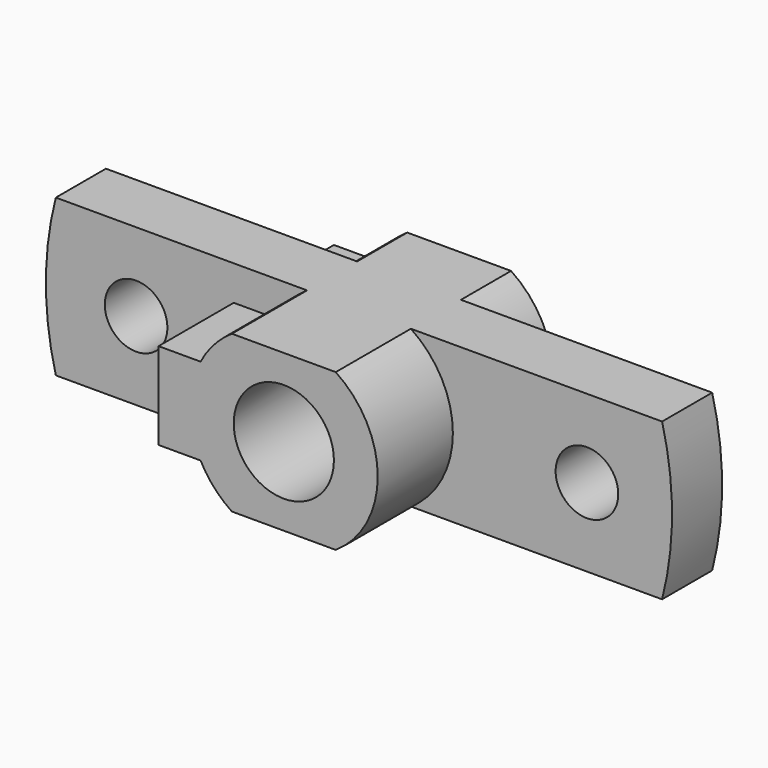
from build123d import *

# Parameters (mm, degrees)
F0_R          = 8
F1_DEPTH      = 25
F1_DEPTH_BACK = 10
F0_R_2        = 5
F2_DEPTH      = 10


with BuildPart() as f1:
    # F0 (on Front) → F1 (new body, two sides)
    with BuildSketch(Plane.XZ) as f1_sk:
        with BuildLine():
            Line((-8.291562, -12.5), (8.291562, -12.5))
            ThreePointArc((8.291562, -12.5), (15, 0), (8.291562, 12.5))
            Line((8.291562, 12.5), (-8.291562, 12.5))
            ThreePointArc((-8.291562, 12.5), (-11.143656, 10.040863), (-13.293364, 6.948847))
            Line((-13.293364, 6.948847), (-20, 6.948847))
            Line((-20, 6.948847), (-20, -6.948847))
            Line((-20, -6.948847), (-13.293364, -6.948847))
            ThreePointArc((-13.293364, -6.948847), (-11.143656, -10.040863), (-8.291562, -12.5))
        make_face()
        Circle(F0_R, mode=Mode.SUBTRACT)
    extrude(amount=F1_DEPTH)
    extrude(f1_sk.sketch, amount=-F1_DEPTH_BACK)

    # F0 (on Front) → F2 (join)
    with BuildSketch(Plane.XZ):
        with BuildLine():
            ThreePointArc((8.291562, 12.5), (15, 0), (8.291562, -12.5))
            Line((8.291562, -12.5), (48.412292, -12.5))
            ThreePointArc((48.412292, -12.5), (50, 0), (48.412292, 12.5))
            Line((48.412292, 12.5), (8.291562, 12.5))
        make_face()
        with Locations((36.408323, 0)):
            Circle(F0_R_2, mode=Mode.SUBTRACT)
        with BuildLine():
            Line((-48.412292, -12.5), (-8.291562, -12.5))
            ThreePointArc((-8.291562, -12.5), (-11.143656, -10.040863), (-13.293364, -6.948847))
            Line((-13.293364, -6.948847), (-20, -6.948847))
            Line((-20, -6.948847), (-20, 6.948847))
            Line((-20, 6.948847), (-13.293364, 6.948847))
            ThreePointArc((-13.293364, 6.948847), (-11.143656, 10.040863), (-8.291562, 12.5))
            Line((-8.291562, 12.5), (-48.412292, 12.5))
            ThreePointArc((-48.412292, 12.5), (-50, 0), (-48.412292, -12.5))
        make_face()
        with Locations((-35.591677, 0)):
            Circle(F0_R_2, mode=Mode.SUBTRACT)
    extrude(amount=F2_DEPTH)


solid = f1.part
